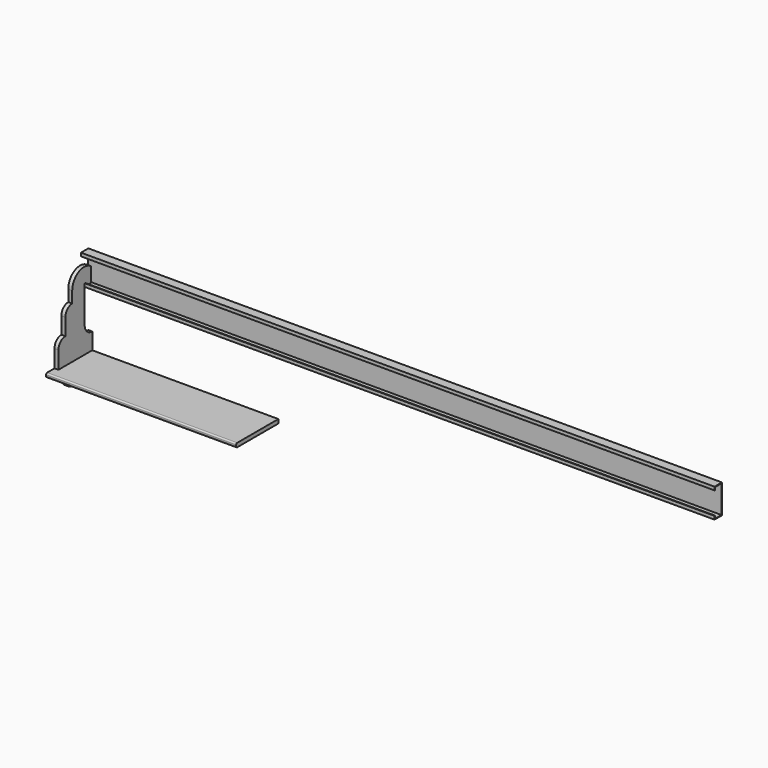
from build123d import *

# Parameters (mm, degrees)
F1_DEPTH = 3048
F2_W     = 254
F2_H     = 19.05
F3_DEPTH = 914.4
F5_DEPTH = 19.05
F7_R     = 6.35


with BuildPart() as f1:
    # F0 (on Right) → F1 (new body)
    with BuildSketch(Plane.YZ):
        Polygon((-44.45, 139.7), (-44.45, 123.825), (-41.275, 123.825), (-41.275, 136.525), (-3.175, 136.525), (-3.175, 3.175), (-41.275, 3.175), (-41.275, 15.875), (-44.45, 15.875), (-44.45, 0), (0, 0), (0, 139.7), align=None)
    extrude(amount=F1_DEPTH)


with BuildPart() as f3:
    # F2 (on Right) → F3 (new body)
    with BuildSketch(Plane.YZ):
        with Locations((-127, -295.275)):
            Rectangle(F2_W, F2_H)
    extrude(amount=F3_DEPTH)


with BuildPart() as f5:
    # F4 (on Right) → F5 (new body)
    with BuildSketch(Plane.YZ):
        with BuildLine():
            Line((-6.35, 3.175), (-6.35, 72.442943))
            ThreePointArc((-6.35, 72.442943), (-81.14446, 79.810998), (-120.65, 15.875))
            Line((-120.65, 15.875), (-120.65, -38.941394))
            ThreePointArc((-120.65, -38.941394), (-149.835832, -51.030562), (-161.925, -80.216394))
            Line((-161.925, -80.216394), (-161.925, -160.297149))
            ThreePointArc((-161.925, -160.297149), (-191.110832, -172.386316), (-203.2, -201.572149))
            Line((-203.2, -201.572149), (-203.2, -285.75))
            Line((-203.2, -285.75), (-165.1, -285.75))
            Line((-165.1, -285.75), (-165.1, -304.8))
            Line((-165.1, -304.8), (-203.2, -304.8))
            ThreePointArc((-203.2, -304.8), (-191.110832, -333.985832), (-161.925, -346.075))
            ThreePointArc((-161.925, -346.075), (-149.835832, -375.260832), (-120.65, -387.35))
            Line((-120.65, -387.35), (-38.1, -387.35))
            ThreePointArc((-38.1, -387.35), (-11.159232, -376.190768), (0, -349.25))
            Line((0, -349.25), (0, -304.8))
            Line((0, -304.8), (-38.1, -304.8))
            Line((-38.1, -304.8), (-38.1, -285.75))
            Line((-38.1, -285.75), (0, -285.75))
            Line((0, -285.75), (0, -206.114095))
            ThreePointArc((0, -206.114095), (-32.397474, -192.694622), (-45.816947, -160.297149))
            Line((-45.816947, -160.297149), (-45.816947, -75.95744))
            Line((-45.816947, -75.95744), (-45.816947, 15.875))
            Line((-45.816947, 15.875), (-39.6875, 15.875))
            Line((-39.6875, 15.875), (-39.6875, 3.175))
            Line((-39.6875, 3.175), (-6.35, 3.175))
        make_face()
    extrude(amount=F5_DEPTH)


with BuildPart() as f3_1:
    add(f3.part)

    # F6: cut F5
    add(f5.part, mode=Mode.SUBTRACT)

    # F7
    f7_edges = [f3_1.edges().sort_by_distance(p)[0] for p in [
        (457.2, -254, -285.75),
        (457.2, -254, -304.8),
    ]]
    fillet(f7_edges, radius=F7_R)


solid = Compound([f1.part, f5.part, f3_1.part])
